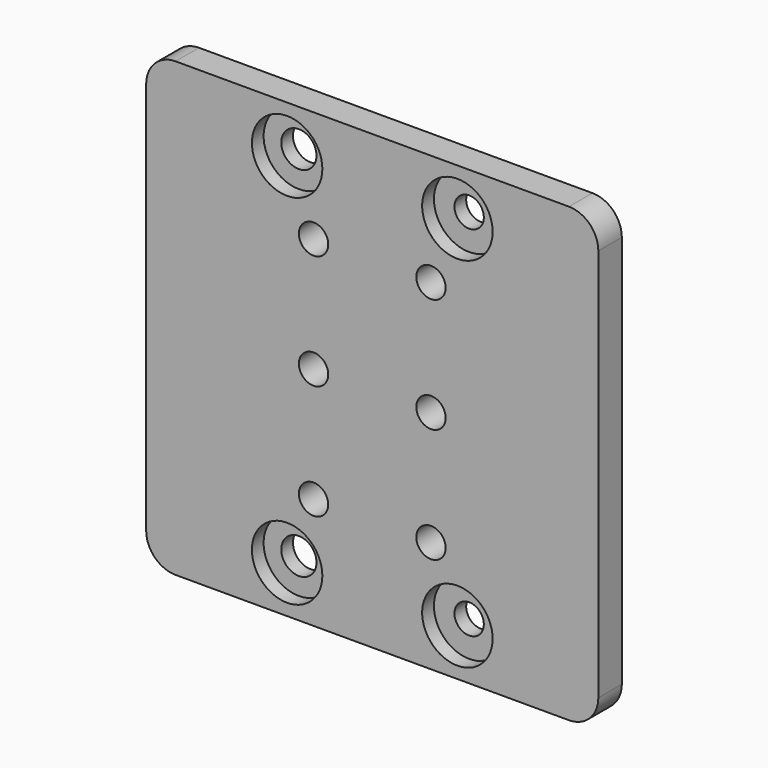
from build123d import *

# Parameters (mm, degrees)
F0_R     = 3
F0_R_2   = 2.5
F1_DEPTH = 5
F2_R     = 6
F3_DEPTH = 2.5


with BuildPart() as f1:
    # F0 (on Front) → F1 (new body)
    with BuildSketch(Plane.XZ):
        with BuildLine():
            ThreePointArc((-38.5, -33.5), (-37.035534, -37.035534), (-33.5, -38.5))
            Line((-33.5, -38.5), (33.5, -38.5))
            ThreePointArc((33.5, -38.5), (37.035534, -37.035534), (38.5, -33.5))
            Line((38.5, -33.5), (38.5, 33.5))
            ThreePointArc((38.5, 33.5), (37.035534, 37.035534), (33.5, 38.5))
            Line((33.5, 38.5), (-33.5, 38.5))
            ThreePointArc((-33.5, 38.5), (-37.035534, 37.035534), (-38.5, 33.5))
            Line((-38.5, 33.5), (-38.5, -33.5))
        make_face()
        with Locations((-14.5, -30.5)):
            Circle(F0_R, mode=Mode.SUBTRACT)
        with Locations((-10, -19.5)):
            Circle(F0_R_2, mode=Mode.SUBTRACT)
        with Locations((14.5, -30.5)):
            Circle(F0_R_2, mode=Mode.SUBTRACT)
        with Locations((10, -19.5)):
            Circle(F0_R_2, mode=Mode.SUBTRACT)
        with Locations((-10, 0)):
            Circle(F0_R_2, mode=Mode.SUBTRACT)
        with Locations((-10, 19.5)):
            Circle(F0_R_2, mode=Mode.SUBTRACT)
        with Locations((-14.5, 30.5)):
            Circle(F0_R, mode=Mode.SUBTRACT)
        with Locations((10, 0)):
            Circle(F0_R_2, mode=Mode.SUBTRACT)
        with Locations((10, 19.5)):
            Circle(F0_R_2, mode=Mode.SUBTRACT)
        with Locations((14.5, 30.5)):
            Circle(F0_R_2, mode=Mode.SUBTRACT)
    extrude(amount=F1_DEPTH)

    # F2 (on face) → F3 (cut)
    with BuildSketch(Plane.XZ.offset(5)):
        with Locations((-14.5, 30.5)):
            Circle(F2_R)
        with Locations((-14.5, -30.5)):
            Circle(F2_R)
        with Locations((14.5, 30.5)):
            Circle(F2_R)
        with Locations((14.5, -30.5)):
            Circle(F2_R)
    extrude(amount=-F3_DEPTH, mode=Mode.SUBTRACT)


solid = f1.part
